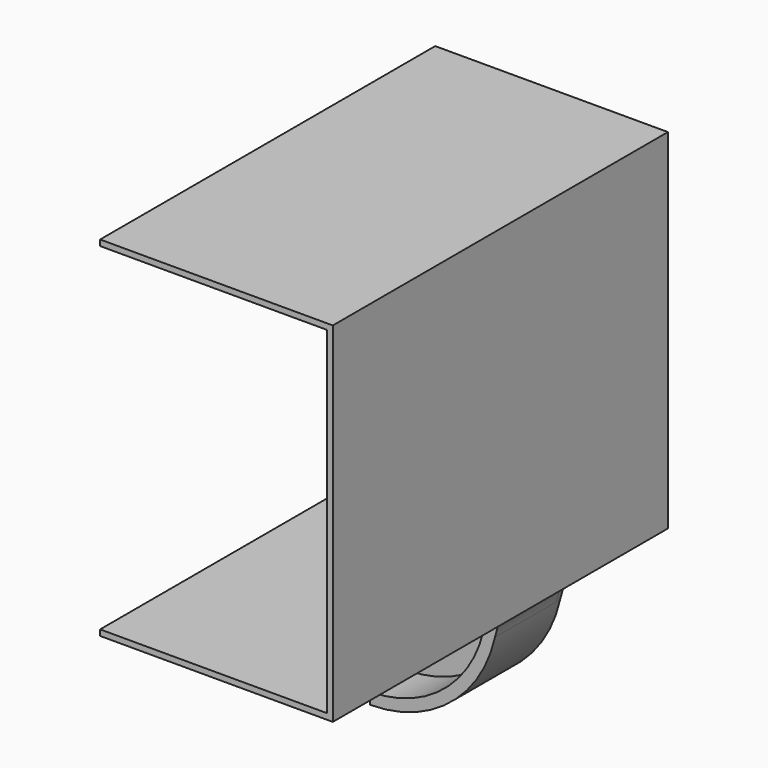
from build123d import *

# Parameters (mm, degrees)
BOX_W                                = 100
BOX_H                                = 200
BOX_DEPTH                            = 250
SKETCH004_W                          = 80
SKETCH004_H                          = 20
EXTRUDE005_DEPTH                     = 20
SKETCH_AS_DRAWN_W                    = 200
SKETCH_AS_DRAWN_H                    = 150
SKETCH_AS_DRAWN_W_2                  = 195
SKETCH_AS_DRAWN_H_2                  = 145
EXTRUDE_DEPTH                        = 180
EXTRUDE_ONTO_SKETCH_ROLL_ANGLE       = 90
EXTRUDE004_DEPTH                     = 20
EXTRUDE004_ONTO_SKETCH002_ROLL_ANGLE = 90
EXTRUDE002_DEPTH                     = 35
EXTRUDE002_ONTO_SKETCH003_ROLL_ANGLE = 90
EXTRUDE001_DEPTH                     = 2
EXTRUDE001_ONTO_SKETCH001_ROLL_ANGLE = 90


with BuildPart() as cube:
    # Box → Box (new body)
    with BuildSketch(Plane(origin=(0, -200, -240), x_dir=(1, 0, 0), z_dir=(0, 0, 1))):
        with Locations((50, 100)):
            Rectangle(BOX_W, BOX_H)
    extrude(amount=BOX_DEPTH)


with BuildPart() as extrude005:
    # Sketch004 → Extrude005 (new body)
    with BuildSketch(Plane.XY.offset(-147.5)):
        with Locations((100, -25)):
            Rectangle(SKETCH004_W, SKETCH004_H)
    extrude(amount=EXTRUDE005_DEPTH)


with BuildPart() as extrude005_1:
    # Extrude005 placement: moved
    add(extrude005.part.moved(Location((0, 0, -6))))


with BuildPart() as cut001:
    # Sketch as drawn → Extrude (new)
    with BuildSketch(Plane.XY):
        with Locations((100, -75)):
            Rectangle(SKETCH_AS_DRAWN_W, SKETCH_AS_DRAWN_H)
        with Locations((100, -75)):
            Rectangle(SKETCH_AS_DRAWN_W_2, SKETCH_AS_DRAWN_H_2, mode=Mode.SUBTRACT)
    extrude(amount=EXTRUDE_DEPTH)


with BuildPart() as cut001_1:
    # Extrude onto Sketch roll: moved
    add(cut001.part.rotate(Axis((0, 0, 0), (1, 0, 0)), EXTRUDE_ONTO_SKETCH_ROLL_ANGLE))


with BuildPart() as cut001_2:
    # Extrude onto Sketch placement: moved
    add(cut001_1.part)

    # Cut001: cut Extrude005
    add(extrude005_1.part, mode=Mode.SUBTRACT)


with BuildPart() as extrude004:
    # Sketch002 as drawn → Extrude004 (new)
    with BuildSketch(Plane.XY):
        with BuildLine():
            ThreePointArc((60, -150), (100, -230), (140, -150))
            Line((60, -150), (140, -150))
        make_face()
    extrude(amount=EXTRUDE004_DEPTH)


with BuildPart() as extrude004_1:
    # Extrude004 onto Sketch002 roll: moved
    add(extrude004.part.rotate(Axis((0, 0, 0), (1, 0, 0)), EXTRUDE004_ONTO_SKETCH002_ROLL_ANGLE))


with BuildPart() as extrude004_2:
    # Extrude004 onto Sketch002 placement: moved
    add(extrude004_1.part)


with BuildPart() as extrude004_3:
    # Extrude004 placement: moved
    add(extrude004_2.part.moved(Location((0, -15, 0))))


with BuildPart() as cut:
    # Sketch003 as drawn → Extrude002 (new)
    with BuildSketch(Plane.XY):
        with BuildLine():
            add(Edge.make_bspline(
                [(46.325052, -192), (40, -164), (0, -150)],
                knots=[0, 0, 0, 1, 1, 1], degree=2))
            Line((0, -150), (200, -150))
            add(Edge.make_bspline(
                [(200, -150), (160, -164), (153.674948, -192)],
                knots=[0, 0, 0, 1, 1, 1], degree=2))
            ThreePointArc((153.674948, -192), (100, -235), (46.325052, -192))
        make_face()
    extrude(amount=EXTRUDE002_DEPTH)


with BuildPart() as cut_1:
    # Extrude002 onto Sketch003 roll: moved
    add(cut.part.rotate(Axis((0, 0, 0), (1, 0, 0)), EXTRUDE002_ONTO_SKETCH003_ROLL_ANGLE))


with BuildPart() as cut_2:
    # Extrude002 onto Sketch003 placement: moved
    add(cut_1.part)

    # Cut: cut Extrude004
    add(extrude004_3.part, mode=Mode.SUBTRACT)


with BuildPart() as cut010:
    # Sketch001 as drawn → Extrude001 (new)
    with BuildSketch(Plane.XY):
        with BuildLine():
            add(Edge.make_bspline(
                [(46.325052, -192), (40, -164), (0, -150)],
                knots=[0, 0, 0, 1, 1, 1], degree=2))
            Line((0, -150), (0, 0))
            Line((0, 0), (200, 0))
            Line((200, 0), (200, -150))
            add(Edge.make_bspline(
                [(200, -150), (160, -164), (153.674948, -192)],
                knots=[0, 0, 0, 1, 1, 1], degree=2))
            ThreePointArc((153.674948, -192), (100, -235), (46.325052, -192))
        make_face()
    extrude(amount=EXTRUDE001_DEPTH)


with BuildPart() as cut010_1:
    # Extrude001 onto Sketch001 roll: moved
    add(cut010.part.rotate(Axis((0, 0, 0), (1, 0, 0)), EXTRUDE001_ONTO_SKETCH001_ROLL_ANGLE))


with BuildPart() as cut010_2:
    # Extrude001 onto Sketch001 placement: moved
    add(cut010_1.part)

    # Fusion: union Cut001, Cut
    add(cut001_2.part)
    add(cut_2.part)

    # Cut010: cut Cube
    add(cube.part, mode=Mode.SUBTRACT)


solid = cut010_2.part
